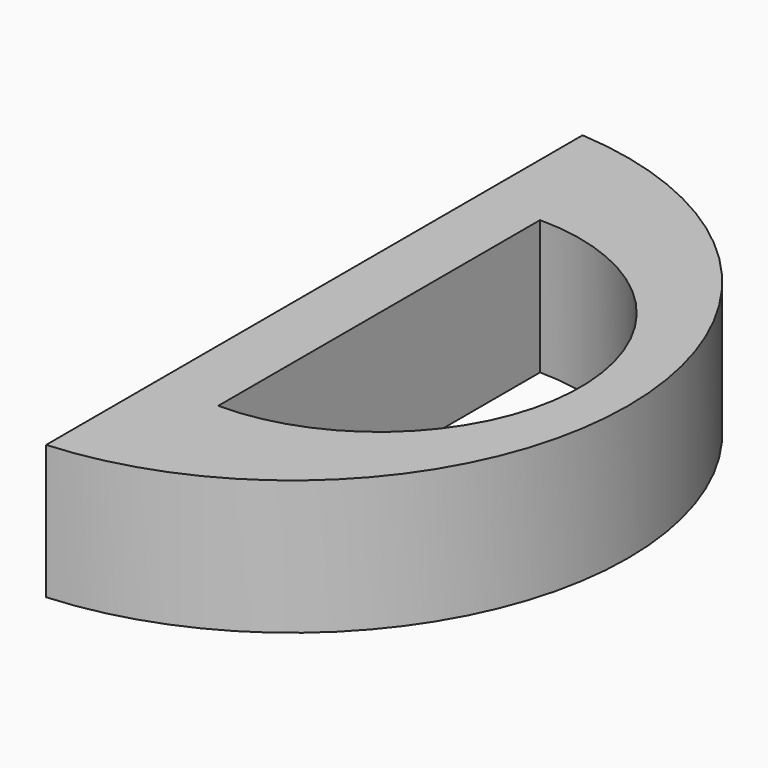
from build123d import *

# Parameters (mm, degrees)
F1_DEPTH = 10


with BuildPart() as f1:
    # F0 (on Top) → F1 (new body)
    with BuildSketch(Plane.XY):
        with BuildLine():
            ThreePointArc((-15.242475, -18.604058), (8.138119, 6.395942), (-15.242475, 31.395942))
            Line((-15.242475, 31.395942), (-15.242475, -18.604058))
        make_face()
        with BuildLine():
            Line((-10.493338, -8.504124), (-10.493338, 21.495876))
            ThreePointArc((-10.493338, 21.495876), (4.506662, 6.495876), (-10.493338, -8.504124))
        make_face(mode=Mode.SUBTRACT)
    extrude(amount=F1_DEPTH)


solid = f1.part
